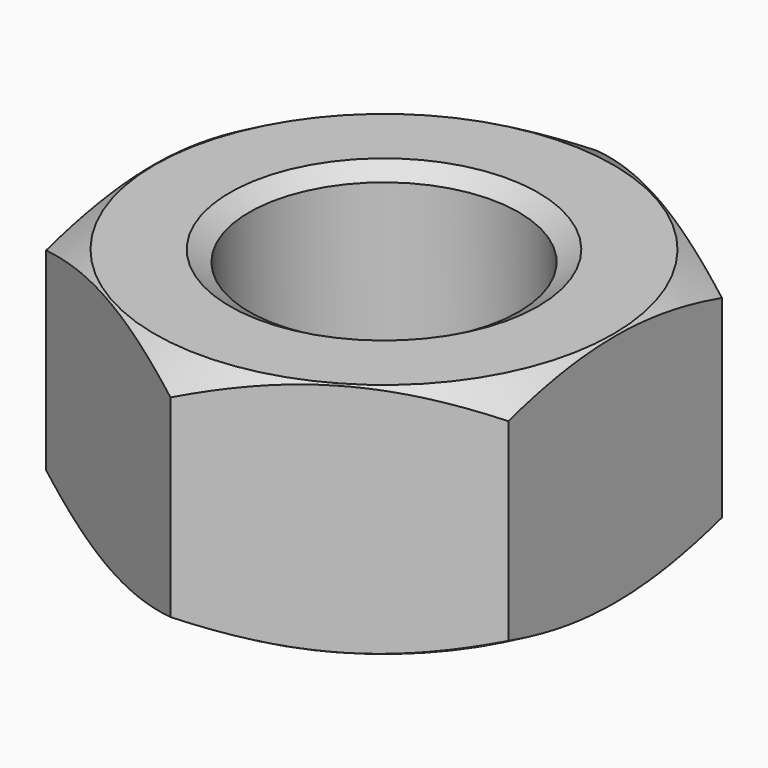
from build123d import *

# Parameters (mm, degrees)
SKETCH001_R  = 14.5
POCKET_DEPTH = 12.3


with BuildPart() as part:
    # Sketch → Revolution (revolve)
    with BuildSketch(Plane.XZ):
        Polygon((8, 0), (7, 0.57735), (7, 11.72265), (8, 12.3), (11.9, 12.3), (14.5, 10.798889), (14.5, 1.501111), (11.9, 0), align=None)
    revolve(axis=Axis((0, 0, 0), (0, 0, 1)))

    # Sketch001 → Pocket (cut)
    with BuildSketch(Plane(origin=(0, 0, 12.3), x_dir=(-1, 0, 0), z_dir=(0, 0, 1))):
        Circle(SKETCH001_R)
        Polygon((-12, 6.928203), (-12, -6.928203), (0, -13.856406), (12, -6.928203), (12, 6.928203), (0, 13.856406), align=None, mode=Mode.SUBTRACT)
    extrude(amount=-POCKET_DEPTH, mode=Mode.SUBTRACT)


solid = part.part
